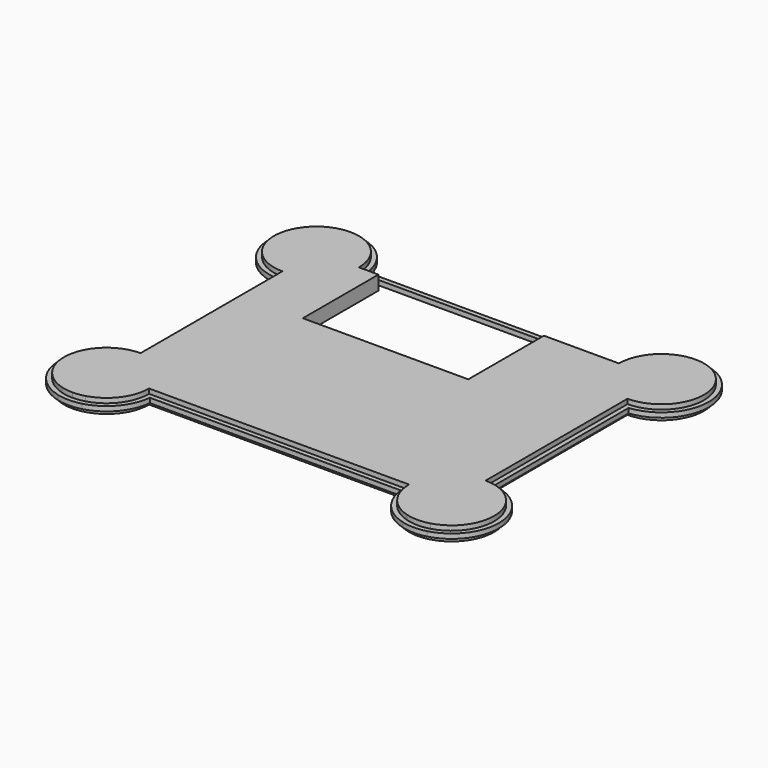
from build123d import *

# Parameters (mm, degrees)
F0_W     = 50
F0_H     = 2
F1_DEPTH = 4
F2_DEPTH = 2
F3_DEPTH = 6
F0_W_2   = 70
F0_H_2   = 40
F4_DEPTH = 6


with BuildPart() as f1:
    # F0 (on Top) → F1 (new body)
    with BuildSketch(Plane.XY):
        with BuildLine():
            Line((53.1002512579, 57.5), (-53.1002512579, 57.5))
            ThreePointArc((-53.1002512579, 57.5), (-87.1421356237, 69.6421356237), (-75, 35.6002512579))
            Line((-75, 35.6002512579), (-75, -35.6002512579))
            ThreePointArc((-75, -35.6002512579), (-92.9418777621, -53.9763493445), (-78, -74.864916731))
            Line((-78, -74.864916731), (-78, -72.7916164658))
            ThreePointArc((-78, -72.7916164658), (-90.8220242451, -52.9750342957), (-73, -37.5))
            Line((-73, -37.5), (-73, 37.5))
            ThreePointArc((-73, 37.5), (-85.7279220614, 68.2279220614), (-55, 55.5))
            Line((-55, 55.5), (-46.7476695776, 55.5))
            Line((-46.7476695776, 55.5), (23.2523304224, 55.5))
            Line((23.2523304224, 55.5), (55, 55.5))
            ThreePointArc((55, 55.5), (85.7279220614, 68.2279220614), (73, 37.5))
            Line((73, 37.5), (73, -37.5))
            ThreePointArc((73, -37.5), (90.8220242451, -52.9750342957), (78, -72.7916164658))
            Line((78, -72.7916164658), (78, -74.864916731))
            ThreePointArc((78, -74.864916731), (92.9418777621, -53.9763493445), (75, -35.6002512579))
            Line((75, -35.6002512579), (75, 35.6002512579))
            ThreePointArc((75, 35.6002512579), (87.1421356237, 69.6421356237), (53.1002512579, 57.5))
        make_face()
        with BuildLine():
            Line((-78, -72.7916164658), (-78, -74.864916731))
            ThreePointArc((-78, -74.864916731), (-73, -75.5), (-68, -74.864916731))
            Line((-68, -74.864916731), (-68, -72.7916164658))
            ThreePointArc((-68, -72.7916164658), (-70.4750342957, -73.3220242451), (-73, -73.5))
            ThreePointArc((-73, -73.5), (-75.5249657043, -73.3220242451), (-78, -72.7916164658))
        make_face()
        with BuildLine():
            ThreePointArc((68, -74.864916731), (73, -75.5), (78, -74.864916731))
            Line((78, -74.864916731), (78, -72.7916164658))
            ThreePointArc((78, -72.7916164658), (73, -73.5), (68, -72.7916164658))
            Line((68, -72.7916164658), (68, -74.864916731))
        make_face()
        with BuildLine():
            Line((-68, -72.7916164658), (-68, -74.864916731))
            ThreePointArc((-68, -74.864916731), (-57.8215792941, -68.5236532845), (-53.1002512579, -57.5))
            Line((-53.1002512579, -57.5), (-25, -57.5))
            Line((-25, -57.5), (-25, -55.5))
            Line((-25, -55.5), (-55, -55.5))
            ThreePointArc((-55, -55.5), (-58.6125054301, -66.3166538264), (-68, -72.7916164658))
        make_face()
        with BuildLine():
            ThreePointArc((53.1002512579, -57.5), (57.8215792941, -68.5236532845), (68, -74.864916731))
            Line((68, -74.864916731), (68, -72.7916164658))
            ThreePointArc((68, -72.7916164658), (58.6125054301, -66.3166538264), (55, -55.5))
            Line((55, -55.5), (25, -55.5))
            Line((25, -55.5), (25, -57.5))
            Line((25, -57.5), (53.1002512579, -57.5))
        make_face()
        with Locations((0, -56.5)):
            Rectangle(F0_W, F0_H)
        with BuildLine():
            ThreePointArc((-73, -37.5), (-90.8220242451, -52.9750342957), (-78, -72.7916164658))
            ThreePointArc((-78, -72.7916164658), (-75.5249657043, -73.3220242451), (-73, -73.5))
            ThreePointArc((-73, -73.5), (-70.4750342957, -73.3220242451), (-68, -72.7916164658))
            ThreePointArc((-68, -72.7916164658), (-58.6125054301, -66.3166538264), (-55, -55.5))
            Line((-55, -55.5), (-25, -55.5))
            Line((-25, -55.5), (25, -55.5))
            Line((25, -55.5), (55, -55.5))
            ThreePointArc((55, -55.5), (58.6125054301, -66.3166538264), (68, -72.7916164658))
            ThreePointArc((68, -72.7916164658), (73, -73.5), (78, -72.7916164658))
            ThreePointArc((78, -72.7916164658), (90.8220242451, -52.9750342957), (73, -37.5))
            Line((73, -37.5), (73, 37.5))
            ThreePointArc((73, 37.5), (85.7279220614, 68.2279220614), (55, 55.5))
            Line((55, 55.5), (23.2523304224, 55.5))
            Line((23.2523304224, 55.5), (23.2523304224, 15.5))
            Line((23.2523304224, 15.5), (-46.7476695776, 15.5))
            Line((-46.7476695776, 15.5), (-46.7476695776, 55.5))
            Line((-46.7476695776, 55.5), (-55, 55.5))
            ThreePointArc((-55, 55.5), (-85.7279220614, 68.2279220614), (-73, 37.5))
            Line((-73, 37.5), (-73, -37.5))
        make_face()
    extrude(amount=F1_DEPTH)

    # F0 (on Top) → F2 (cut)
    with BuildSketch(Plane.XY):
        with BuildLine():
            Line((-68, -72.7916164658), (-68, -74.864916731))
            ThreePointArc((-68, -74.864916731), (-57.8215792941, -68.5236532845), (-53.1002512579, -57.5))
            Line((-53.1002512579, -57.5), (-25, -57.5))
            Line((-25, -57.5), (-25, -55.5))
            Line((-25, -55.5), (-55, -55.5))
            ThreePointArc((-55, -55.5), (-58.6125054301, -66.3166538264), (-68, -72.7916164658))
        make_face()
        with BuildLine():
            Line((-78, -72.7916164658), (-78, -74.864916731))
            ThreePointArc((-78, -74.864916731), (-73, -75.5), (-68, -74.864916731))
            Line((-68, -74.864916731), (-68, -72.7916164658))
            ThreePointArc((-68, -72.7916164658), (-70.4750342957, -73.3220242451), (-73, -73.5))
            ThreePointArc((-73, -73.5), (-75.5249657043, -73.3220242451), (-78, -72.7916164658))
        make_face()
        with BuildLine():
            Line((53.1002512579, 57.5), (-53.1002512579, 57.5))
            ThreePointArc((-53.1002512579, 57.5), (-87.1421356237, 69.6421356237), (-75, 35.6002512579))
            Line((-75, 35.6002512579), (-75, -35.6002512579))
            ThreePointArc((-75, -35.6002512579), (-92.9418777621, -53.9763493445), (-78, -74.864916731))
            Line((-78, -74.864916731), (-78, -72.7916164658))
            ThreePointArc((-78, -72.7916164658), (-90.8220242451, -52.9750342957), (-73, -37.5))
            Line((-73, -37.5), (-73, 37.5))
            ThreePointArc((-73, 37.5), (-85.7279220614, 68.2279220614), (-55, 55.5))
            Line((-55, 55.5), (-46.7476695776, 55.5))
            Line((-46.7476695776, 55.5), (23.2523304224, 55.5))
            Line((23.2523304224, 55.5), (55, 55.5))
            ThreePointArc((55, 55.5), (85.7279220614, 68.2279220614), (73, 37.5))
            Line((73, 37.5), (73, -37.5))
            ThreePointArc((73, -37.5), (90.8220242451, -52.9750342957), (78, -72.7916164658))
            Line((78, -72.7916164658), (78, -74.864916731))
            ThreePointArc((78, -74.864916731), (92.9418777621, -53.9763493445), (75, -35.6002512579))
            Line((75, -35.6002512579), (75, 35.6002512579))
            ThreePointArc((75, 35.6002512579), (87.1421356237, 69.6421356237), (53.1002512579, 57.5))
        make_face()
        with Locations((0, -56.5)):
            Rectangle(F0_W, F0_H)
        with BuildLine():
            ThreePointArc((53.1002512579, -57.5), (57.8215792941, -68.5236532845), (68, -74.864916731))
            Line((68, -74.864916731), (68, -72.7916164658))
            ThreePointArc((68, -72.7916164658), (58.6125054301, -66.3166538264), (55, -55.5))
            Line((55, -55.5), (25, -55.5))
            Line((25, -55.5), (25, -57.5))
            Line((25, -57.5), (53.1002512579, -57.5))
        make_face()
        with BuildLine():
            ThreePointArc((68, -74.864916731), (73, -75.5), (78, -74.864916731))
            Line((78, -74.864916731), (78, -72.7916164658))
            ThreePointArc((78, -72.7916164658), (73, -73.5), (68, -72.7916164658))
            Line((68, -72.7916164658), (68, -74.864916731))
        make_face()
    extrude(amount=F2_DEPTH, mode=Mode.SUBTRACT)

    # F0 (on Top) → F4 (cut)
    with BuildSketch(Plane.XY):
        with Locations((-11.7476695776, 35.5)):
            Rectangle(F0_W_2, F0_H_2)
    extrude(amount=F4_DEPTH, mode=Mode.SUBTRACT)


with BuildPart() as f3:
    # F0 (on Top) → F3 (new body)
    with BuildSketch(Plane.XY):
        with BuildLine():
            ThreePointArc((-73, -37.5), (-90.8220242451, -52.9750342957), (-78, -72.7916164658))
            ThreePointArc((-78, -72.7916164658), (-75.5249657043, -73.3220242451), (-73, -73.5))
            ThreePointArc((-73, -73.5), (-70.4750342957, -73.3220242451), (-68, -72.7916164658))
            ThreePointArc((-68, -72.7916164658), (-58.6125054301, -66.3166538264), (-55, -55.5))
            Line((-55, -55.5), (-25, -55.5))
            Line((-25, -55.5), (25, -55.5))
            Line((25, -55.5), (55, -55.5))
            ThreePointArc((55, -55.5), (58.6125054301, -66.3166538264), (68, -72.7916164658))
            ThreePointArc((68, -72.7916164658), (73, -73.5), (78, -72.7916164658))
            ThreePointArc((78, -72.7916164658), (90.8220242451, -52.9750342957), (73, -37.5))
            Line((73, -37.5), (73, 37.5))
            ThreePointArc((73, 37.5), (85.7279220614, 68.2279220614), (55, 55.5))
            Line((55, 55.5), (23.2523304224, 55.5))
            Line((23.2523304224, 55.5), (23.2523304224, 15.5))
            Line((23.2523304224, 15.5), (-46.7476695776, 15.5))
            Line((-46.7476695776, 15.5), (-46.7476695776, 55.5))
            Line((-46.7476695776, 55.5), (-55, 55.5))
            ThreePointArc((-55, 55.5), (-85.7279220614, 68.2279220614), (-73, 37.5))
            Line((-73, 37.5), (-73, -37.5))
        make_face()
    extrude(amount=F3_DEPTH)


solid = Compound([f1.part, f3.part])
